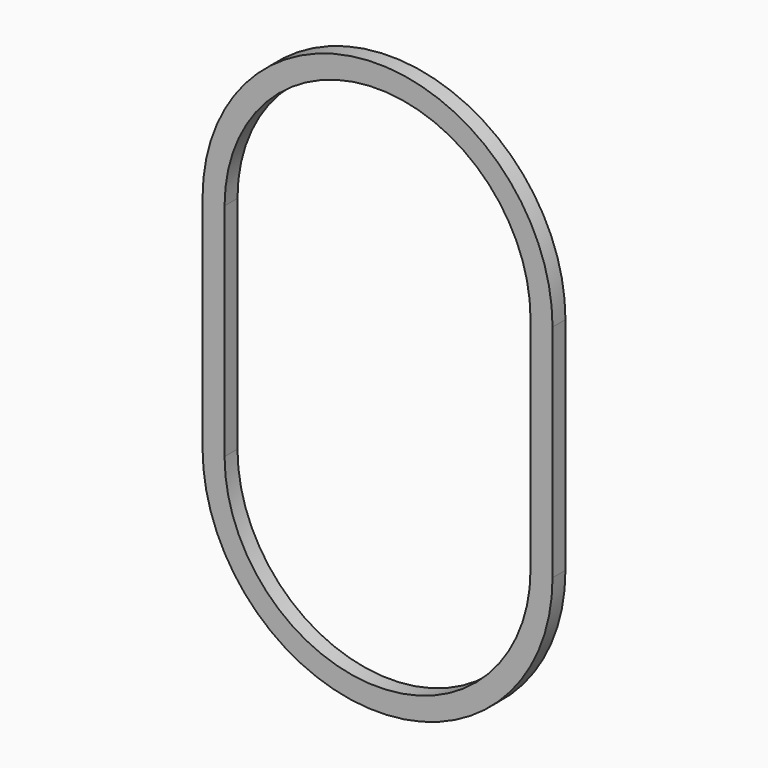
from build123d import *

# Parameters (mm, degrees)
F2_DEPTH = 2.2


with BuildPart() as f2:
    # F1 (on face) → F2 (new body)
    with BuildSketch(Plane.XZ):
        with BuildLine():
            ThreePointArc((-23.85, -15.04), (0, -38.89), (23.85, -15.04))
            Line((23.85, -15.04), (23.85, 15.04))
            ThreePointArc((23.85, 15.04), (0, 38.89), (-23.85, 15.04))
            Line((-23.85, 15.04), (-23.85, -15.04))
        make_face()
        with BuildLine():
            ThreePointArc((20.85, -15.04), (0, -35.89), (-20.85, -15.04))
            Line((-20.85, -15.04), (-20.85, 15.04))
            ThreePointArc((-20.85, 15.04), (0, 35.89), (20.85, 15.04))
            Line((20.85, 15.04), (20.85, -15.04))
        make_face(mode=Mode.SUBTRACT)
    extrude(amount=F2_DEPTH)


solid = f2.part
